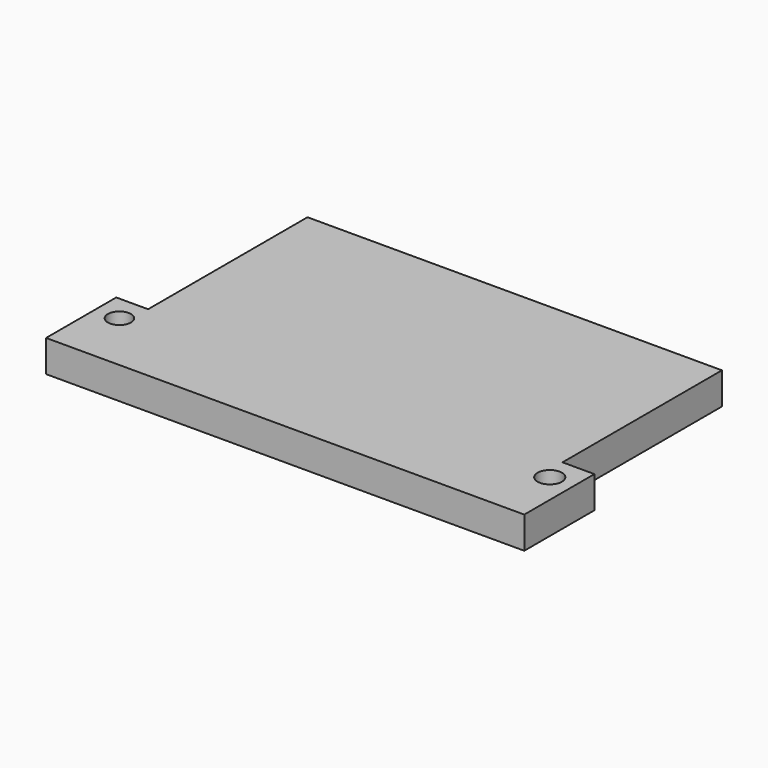
from build123d import *

# Parameters (mm, degrees)
F0_R     = 18.406686
F0_R_2   = 19.439656
F1_DEPTH = 50.8


with BuildPart() as f1:
    # F0 (on Top) → F1 (new body)
    with BuildSketch(Plane.XY):
        Polygon((330.2, -88.9), (330.2, 228.6), (-330.2, 228.6), (-330.2, -88.9), (-381, -88.9), (-381, -228.6), (381, -228.6), (381, -88.9), align=None)
        with Locations((-342.9, -130.175)):
            Circle(F0_R, mode=Mode.SUBTRACT)
        with Locations((342.9, -130.175)):
            Circle(F0_R_2, mode=Mode.SUBTRACT)
    extrude(amount=F1_DEPTH)


solid = f1.part
